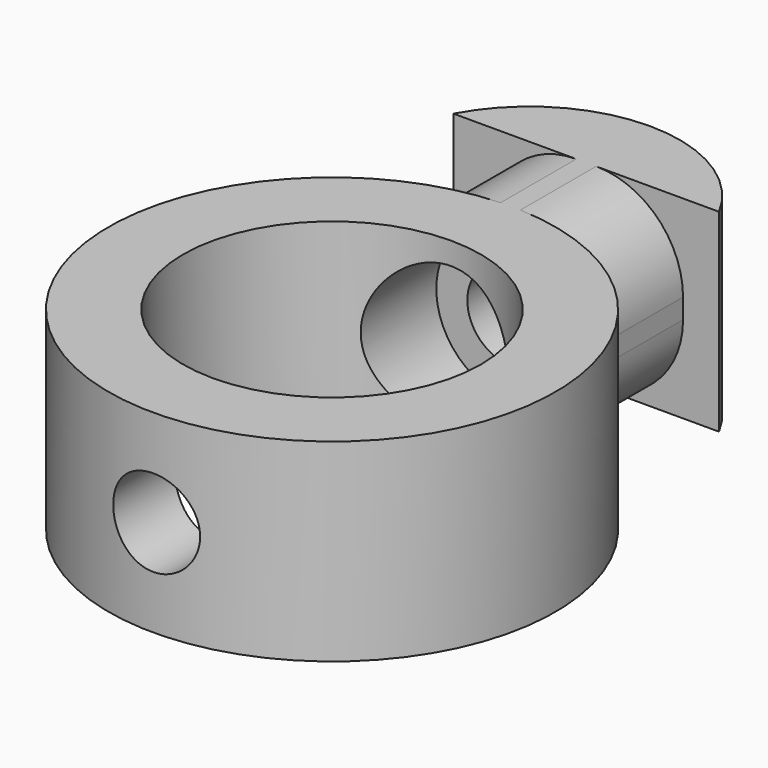
from build123d import *

# Parameters (mm, degrees)
PAD_DEPTH         = 3.9
SKETCH001_R       = 6
PAD001_DEPTH      = 7.8
FILLET_R          = 3.5
SKETCH002_R       = 1.75
POCKET_DEPTH      = 4.001
POCKET_DEPTH_BACK = 21.001
POCKET001_DEPTH   = 4
SKETCH004_R       = 3
POCKET002_DEPTH   = 6


with BuildPart() as part:
    # Sketch → Pad (new body, symmetric)
    with BuildSketch(Plane.XY):
        with BuildLine():
            Line((-3.9, 0), (3.9, 0))
            Line((3.9, 0), (3.9, 0.8))
            Line((3.9, 0.8), (5.35, 0.8))
            ThreePointArc((5.35, 0.8), (0, 4), (-5.35, 0.8))
            Line((-5.35, 0.8), (-3.9, 0.8))
            Line((-3.9, 0.8), (-3.9, 0))
        make_face()
    extrude(amount=PAD_DEPTH, both=True)

    # Sketch001 (on Face7 of Pad) → Pad001 (join)
    with BuildSketch(Plane(origin=(0, 0, -3.9), x_dir=(1, 0, 0), z_dir=(0, 0, -1))):
        with BuildLine():
            ThreePointArc((3.9, 3.888896), (0, 21), (-3.9, 3.888896))
            Line((-3.9, 3.888896), (-3.9, 0))
            Line((-3.9, 0), (3.9, 0))
            Line((3.9, 0), (3.9, 3.888896))
        make_face()
        with Locations((0, 12)):
            Circle(SKETCH001_R, mode=Mode.SUBTRACT)
    extrude(amount=-PAD001_DEPTH)

    # Fillet
    fillet_edges = [part.edges().sort_by_distance(p)[0] for p in [
        (-3.9, -1.944448, -3.9),
        (-3.9, -1.944448, 3.9),
        (3.9, -1.944448, 3.9),
        (3.9, -1.944448, -3.9),
    ]]
    fillet(fillet_edges, radius=FILLET_R)

    # Sketch002 → Pocket (cut, two sides)
    with BuildSketch(Plane.XZ) as pocket_sk:
        Circle(SKETCH002_R)
    extrude(amount=-POCKET_DEPTH, mode=Mode.SUBTRACT)
    extrude(pocket_sk.sketch, amount=POCKET_DEPTH_BACK, mode=Mode.SUBTRACT)

    # Sketch003 (on DatumPlane) → Pocket001 (cut)
    with BuildSketch(Plane.XZ.offset(-4)):
        Polygon((-1.45, -2.511474), (1.45, -2.511474), (2.9, 0), (1.45, 2.511474), (-1.45, 2.511474), (-2.9, 0), align=None)
    extrude(amount=POCKET001_DEPTH, mode=Mode.SUBTRACT)

    # Sketch004 (on DatumPlane) → Pocket002 (cut)
    with BuildSketch(Plane.XZ.offset(3)):
        Circle(SKETCH004_R)
    extrude(amount=POCKET002_DEPTH, mode=Mode.SUBTRACT)


solid = part.part
